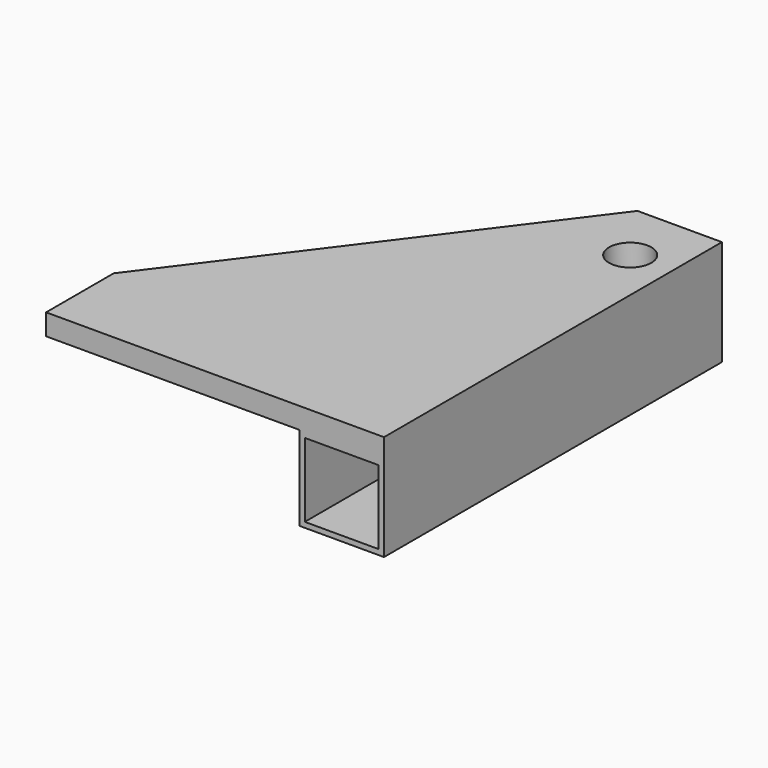
from build123d import *

# Parameters (mm, degrees)
F0_W     = 25.4
F0_H     = 127
F1_DEPTH = 25.4
F2_T     = -1.5875
F3_W     = 25.4
F3_H     = 127
F4_DEPTH = 6.35
F5_R     = 6.35
F6_DEPTH = 31.751


with BuildPart() as f1:
    # F0 (on Top) → F1 (new body)
    with BuildSketch(Plane.XY):
        Rectangle(F0_W, F0_H)
    extrude(amount=F1_DEPTH)

    # F2
    f2_openings = [f1.faces().sort_by_distance(p)[0] for p in [
        (0, -63.5, 12.7),
    ]]
    offset(amount=F2_T, openings=f2_openings)

    # F3 (on face) → F4 (join)
    with BuildSketch(Plane.XY.offset(25.4)):
        Rectangle(F3_W, F3_H)
        Polygon((-12.7, -63.5), (-12.7, 63.5), (-88.9, -38.1), (-88.9, -63.5), align=None)
    extrude(amount=F4_DEPTH)

    # F5 (on face) → F6 (cut, through all)
    with BuildSketch(Plane(origin=(0, 0, 0), x_dir=(1, 0, 0), z_dir=(0, 0, -1))):
        with Locations((0, -44.897698)):
            Circle(F5_R)
    extrude(amount=-F6_DEPTH, mode=Mode.SUBTRACT)


solid = f1.part
